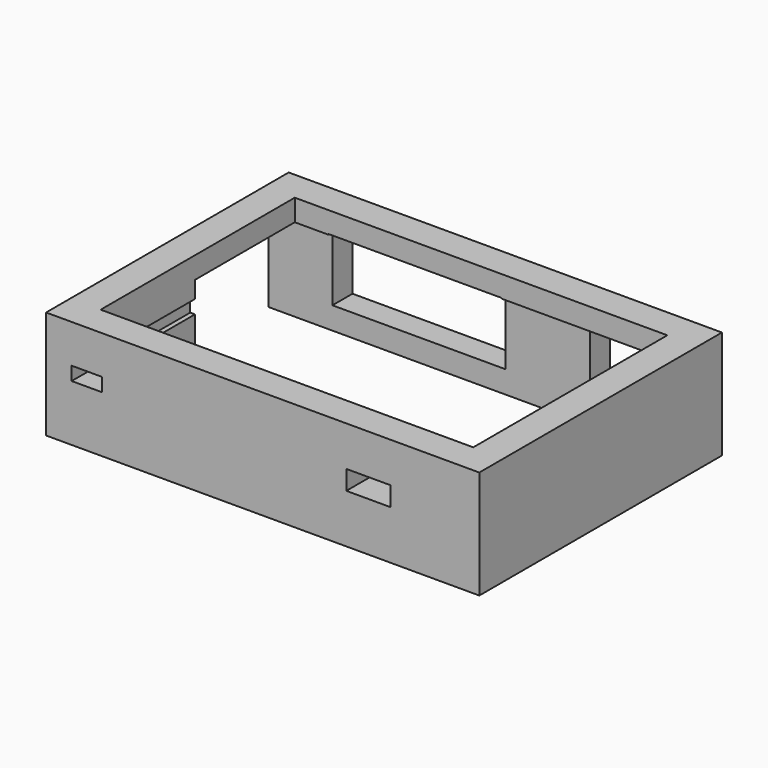
from build123d import *

# Parameters (mm, degrees)
F0_W     = 5.1603317261
F0_H     = 700
F1_DEPTH = 2500
F2_W     = 1500
F2_H     = 2000
F2_W_2   = 4000
F2_H_2   = 1500
F3_DEPTH = 700
F4_W     = 3000
F4_H     = 2000
F5_DEPTH = 7414.2666326294
F6_W     = 695.5481171608
F6_H     = 312.1048212051
F6_W_2   = 1016.5700912476
F6_H_2   = 445.8640813828
F7_DEPTH = 3420.8407865295


with BuildPart() as f1:
    # F0 (on Top) → F1 (new body)
    with BuildSketch(Plane.XY):
        Polygon((0, 7000), (0, 0), (10000, 0), (10000, 7000), (9300, 7000), (9300, 6300), (9300, 700), (700, 700), (700, 6300), (9294.8396682739, 6300), (9294.8396682739, 7000), align=None)
        with Locations((9297.419834137, 6650)):
            Rectangle(F0_W, F0_H)
    extrude(amount=F1_DEPTH)

    # F2 (on face) → F3 (cut, through all)
    with BuildSketch(Plane(origin=(0, 7000, 0), x_dir=(-1, 0, 0), z_dir=(0, 1, 0))):
        with Locations((-8164.2656326294, 1000)):
            Rectangle(F2_W, F2_H)
        with Locations((-3473.1402397156, 1265.095949173)):
            Rectangle(F2_W_2, F2_H_2)
    extrude(amount=-F3_DEPTH, mode=Mode.SUBTRACT)

    # F4 (on face) → F5 (cut, through all)
    with BuildSketch(Plane(origin=(0, 0, 0), x_dir=(0, -1, 0), z_dir=(-1, 0, 0))):
        with Locations((-4920.8397865295, 1000)):
            Rectangle(F4_W, F4_H)
    extrude(amount=-F5_DEPTH, mode=Mode.SUBTRACT)

    # F6 (on face) → F7 (cut, through all)
    with BuildSketch(Plane.XZ):
        with Locations((938.1779134274, 1455.0974965096)):
            Rectangle(F6_W, F6_H)
        with Locations((7438.8766288757, 1352.5487780571)):
            Rectangle(F6_W_2, F6_H_2)
    extrude(amount=-F7_DEPTH, mode=Mode.SUBTRACT)


solid = f1.part
